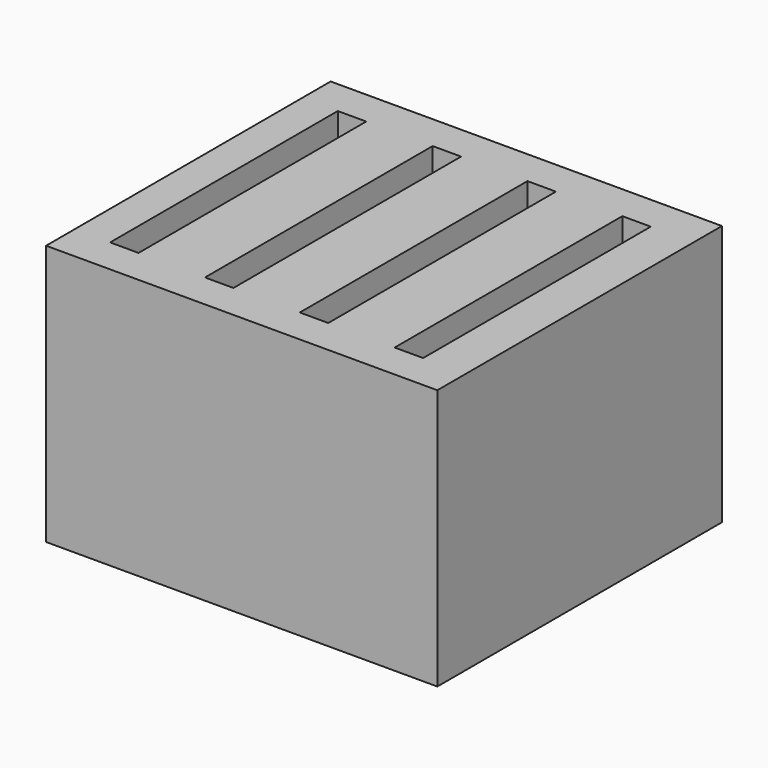
from build123d import *

# Parameters (mm, degrees)
BOX001_W     = 2.4
BOX001_H     = 24
BOX001_DEPTH = 22
BOX002_W     = 2.4
BOX002_H     = 24
BOX002_DEPTH = 22
BOX003_W     = 2.4
BOX003_H     = 24
BOX003_DEPTH = 22
BOX_W        = 2.4
BOX_H        = 24
BOX_DEPTH    = 22
BOX004_W     = 33
BOX004_H     = 30
BOX004_DEPTH = 22


with BuildPart() as ranura002:
    # Box001 → Box001 (new body)
    with BuildSketch(Plane(origin=(11, 3, 3), x_dir=(1, 0, 0), z_dir=(0, 0, 1))):
        with Locations((1.2, 12)):
            Rectangle(BOX001_W, BOX001_H)
    extrude(amount=BOX001_DEPTH)


with BuildPart() as ranura003:
    # Box002 → Box002 (new body)
    with BuildSketch(Plane(origin=(19, 3, 3), x_dir=(1, 0, 0), z_dir=(0, 0, 1))):
        with Locations((1.2, 12)):
            Rectangle(BOX002_W, BOX002_H)
    extrude(amount=BOX002_DEPTH)


with BuildPart() as ranura004:
    # Box003 → Box003 (new body)
    with BuildSketch(Plane(origin=(27, 3, 3), x_dir=(1, 0, 0), z_dir=(0, 0, 1))):
        with Locations((1.2, 12)):
            Rectangle(BOX003_W, BOX003_H)
    extrude(amount=BOX003_DEPTH)


with BuildPart() as obj1:
    # Box → Box (new body)
    with BuildSketch(Plane(origin=(3, 3, 3), x_dir=(1, 0, 0), z_dir=(0, 0, 1))):
        with Locations((1.2, 12)):
            Rectangle(BOX_W, BOX_H)
    extrude(amount=BOX_DEPTH)

    # Fusion: union ranura002, ranura003, ranura004
    add(ranura002.part)
    add(ranura003.part)
    add(ranura004.part)


with BuildPart() as obj2:
    # Box004 → Box004 (new body)
    with BuildSketch(Plane.XY):
        with Locations((16.5, 15)):
            Rectangle(BOX004_W, BOX004_H)
    extrude(amount=BOX004_DEPTH)

    # Cut: cut obj1
    add(obj1.part, mode=Mode.SUBTRACT)


solid = obj2.part
